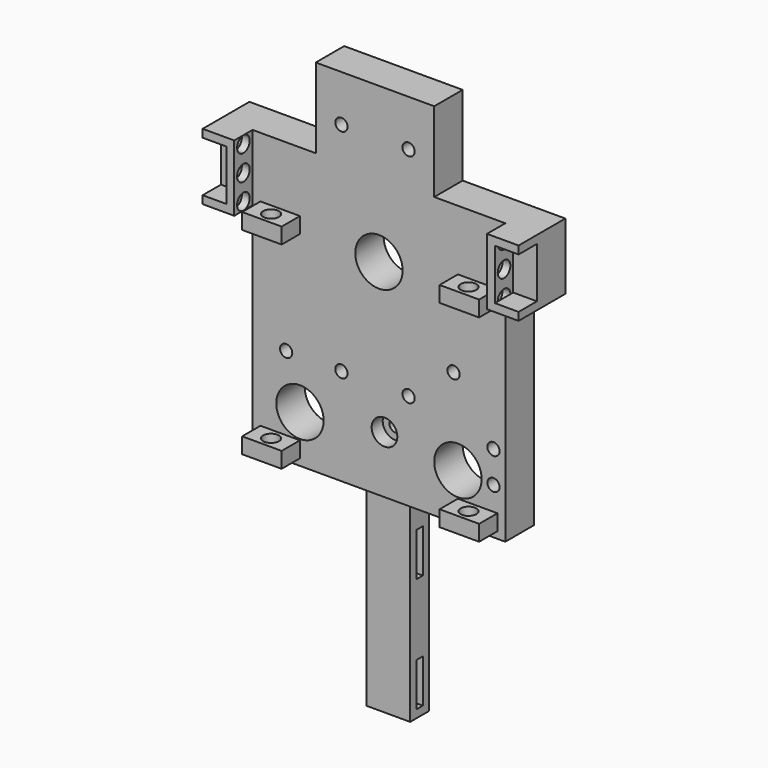
from build123d import *

# Parameters (mm, degrees)
SKETCH022_W            = 64
SKETCH022_H            = 64
PAD020_DEPTH           = 9
SKETCH023_R            = 1.55
POCKET003_DEPTH        = 9
SKETCH024_R            = 1.55
POCKET004_DEPTH        = 9
SKETCH025_R            = 3
POCKET005_DEPTH        = 5.5
SKETCH026_R            = 6
POCKET006_DEPTH        = 9
SKETCH030_R            = 1.55
POCKET009_DEPTH        = 9
SKETCH031_W            = 30
SKETCH031_H            = 27.227398
PAD022_DEPTH           = 9
SKETCH032_R            = 1.55
POCKET010_DEPTH        = 9
SKETCH066_W            = 16.8
SKETCH066_H            = 9
PAD040_DEPTH           = 8
PAD040_FACE8_W         = 9
PAD040_FACE8_H         = 16
PAD041_DEPTH           = 7
MIRRORED_FACE11_W      = 9
MIRRORED_FACE11_H      = 18
PAD042_DEPTH           = 7
PAD043_DEPTH           = 5.8
SKETCH068_R            = 2
POCKET027_DEPTH        = 5
LINEARPATTERN_COUNT    = 3
LINEARPATTERN_PITCH    = 6.4
SKETCH069_R            = 2
POCKET028_DEPTH        = 5
LINEARPATTERN001_COUNT = 3
LINEARPATTERN001_PITCH = 6.4
SKETCH071_W            = 10
SKETCH071_H            = 4
PAD044_DEPTH           = 5.8
SKETCH073_R            = 2
POCKET029_DEPTH        = 100
SKETCH074_W            = 11
SKETCH074_H            = 6
PAD045_DEPTH           = 50
SKETCH075_W            = 11
SKETCH075_H            = 2
POCKET030_DEPTH        = 12
SKETCH076_R            = 1.55
POCKET031_DEPTH        = 10
SKETCH083_R            = 3.25
POCKET035_DEPTH        = 3.5


with BuildPart() as part:
    # Sketch022 → Pad020 (new body)
    with BuildSketch(Plane.XZ):
        Rectangle(SKETCH022_W, SKETCH022_H)
    extrude(amount=PAD020_DEPTH)

    # Sketch023 (on Face5 of Pad020) → Pocket003 (cut)
    with BuildSketch(Plane(origin=(0, 0, 0), x_dir=(1, 0, 0), z_dir=(0, 1, 0))):
        with Locations((-9.5, 7.5)):
            Circle(SKETCH023_R)
        with Locations((-23.5, 7.5)):
            Circle(SKETCH023_R)
    extrude(amount=-POCKET003_DEPTH, mode=Mode.SUBTRACT)

    # Sketch024 (on Face4 of Pocket003) → Pocket004 (cut)
    with BuildSketch(Plane(origin=(0, 0, 0), x_dir=(1, 0, 0), z_dir=(0, 1, 0))):
        with Locations((1.4, 17.5)):
            Circle(SKETCH024_R)
        with Locations((18.9, -1.5)):
            Circle(SKETCH024_R)
    extrude(amount=-POCKET004_DEPTH, mode=Mode.SUBTRACT)

    # Sketch025 (on Face4 of Pocket004) → Pocket005 (cut)
    with BuildSketch(Plane(origin=(0, 0, 0), x_dir=(1, 0, 0), z_dir=(0, 1, 0))):
        with Locations((-23.5, 7.5)):
            Circle(SKETCH025_R)
        with Locations((-9.5, 7.5)):
            Circle(SKETCH025_R)
    extrude(amount=-POCKET005_DEPTH, mode=Mode.SUBTRACT)

    # Sketch026 (on Face4 of Pocket005) → Pocket006 (cut)
    with BuildSketch(Plane(origin=(0, 0, 0), x_dir=(1, 0, 0), z_dir=(0, 1, 0))):
        with Locations((0, -20)):
            Circle(SKETCH026_R)
        with Locations((20, 20)):
            Circle(SKETCH026_R)
        with Locations((-20, 20)):
            Circle(SKETCH026_R)
    extrude(amount=-POCKET006_DEPTH, mode=Mode.SUBTRACT)

    # Sketch030 (on Face5 of Pocket006) → Pocket009 (cut)
    with BuildSketch(Plane.XZ.offset(9)):
        with Locations((7.5, -7.5)):
            Circle(SKETCH030_R)
    extrude(amount=-POCKET009_DEPTH, mode=Mode.SUBTRACT)

    # Sketch031 (on Face5 of Pocket009) → Pad022 (join)
    with BuildSketch(Plane.XZ.offset(9)):
        with Locations((-1, 45.613699)):
            Rectangle(SKETCH031_W, SKETCH031_H)
    extrude(amount=-PAD022_DEPTH)

    # Sketch032 (on Face22 of Pad022) → Pocket010 (cut)
    with BuildSketch(Plane.XZ.offset(9)):
        with Locations((-9.5, 47.5)):
            Circle(SKETCH032_R)
        with Locations((7.5, 47.5)):
            Circle(SKETCH032_R)
    extrude(amount=-POCKET010_DEPTH, mode=Mode.SUBTRACT)

    # Sketch066 (on Face2 of Pocket010) → Pad040 (join)
    with BuildSketch(Plane(origin=(-32, 0, 0), x_dir=(0, 0, -1), z_dir=(-1, 0, 0))):
        with Locations((-30.6, 4.5)):
            Rectangle(SKETCH066_W, SKETCH066_H)
    pad040 = extrude(amount=PAD040_DEPTH)

    # Pad040 Face8 → Pad041 (add)
    with BuildSketch(Plane(origin=(-24, -4.5, 32), x_dir=(0, 1, 0), z_dir=(0, 0, 1))):
        Rectangle(PAD040_FACE8_W, PAD040_FACE8_H)
    extrude(amount=PAD041_DEPTH)

    # Mirrored: Pad040 across YZ
    add(pad040.mirror(Plane.YZ))

    # Mirrored Face11 → Pad042 (add)
    with BuildSketch(Plane(origin=(23, -4.5, 32), x_dir=(0, 1, 0), z_dir=(0, 0, 1))):
        Rectangle(MIRRORED_FACE11_W, MIRRORED_FACE11_H)
    extrude(amount=PAD042_DEPTH)

    # Sketch067 (on Face27 of Pad042) → Pad043 (join)
    with BuildSketch(Plane.XZ.offset(9)):
        Polygon((40, 39), (32, 39), (32, 22.2), (40, 22.2), (40, 24.2), (34, 24.2), (34, 37), (40, 37), align=None)
    pad043 = extrude(amount=PAD043_DEPTH)

    # Mirrored001: Pad043 across YZ
    add(pad043.mirror(Plane.YZ))

    # Sketch068 (on Face37 of Mirrored001) → Pocket027 (cut)
    with BuildSketch(Plane(origin=(-34, 0, 0), x_dir=(0, 0, -1), z_dir=(-1, 0, 0))):
        with Locations((-24.2, 11.9)):
            Circle(SKETCH068_R)
    pocket027 = extrude(amount=-POCKET027_DEPTH, mode=Mode.SUBTRACT)

    # LinearPattern: Pocket027 ×3
    with Locations(*[(0, 0, i * LINEARPATTERN_PITCH) for i in range(1, LINEARPATTERN_COUNT)]):
        add(pocket027, mode=Mode.SUBTRACT)

    # Sketch069 (on Face44 of LinearPattern) → Pocket028 (cut)
    with BuildSketch(Plane(origin=(34, 0, 0), x_dir=(0, 0, 1), z_dir=(1, 0, 0))):
        with Locations((37, 11.9)):
            Circle(SKETCH069_R)
    pocket028 = extrude(amount=-POCKET028_DEPTH, mode=Mode.SUBTRACT)

    # LinearPattern001: Pocket028 ×3
    with Locations(*[(0, 0, -i * LINEARPATTERN001_PITCH) for i in range(1, LINEARPATTERN001_COUNT)]):
        add(pocket028, mode=Mode.SUBTRACT)

    # Sketch071 (on Face35 of LinearPattern001) → Pad044 (join)
    with BuildSketch(Plane.XZ.offset(9)):
        with Locations((25, 21.7)):
            Rectangle(SKETCH071_W, SKETCH071_H)
        with Locations((25, -28.3)):
            Rectangle(SKETCH071_W, SKETCH071_H)
    pad044 = extrude(amount=PAD044_DEPTH)

    # Mirrored003: Pad044 across Sketch071 V_Axis
    add(pad044.mirror(Plane(origin=(0, -9, 0), x_dir=(0, -1, 0), z_dir=(1, 0, 0))))

    # Sketch073 (on Face49 of Mirrored003) → Pocket029 (cut)
    with BuildSketch(Plane(origin=(0, 0, 23.7), x_dir=(-1, 0, 0), z_dir=(0, 0, 1))):
        with Locations((-25, 11.9)):
            Circle(SKETCH073_R)
    pocket029 = extrude(amount=-POCKET029_DEPTH, mode=Mode.SUBTRACT)

    # Mirrored004: Pocket029 across YZ
    add(pocket029.mirror(Plane.YZ), mode=Mode.SUBTRACT)

    # Sketch074 (on Face15 of Mirrored004) → Pad045 (join)
    with BuildSketch(Plane(origin=(0, 0, -32), x_dir=(1, 0, 0), z_dir=(0, 0, -1))):
        with Locations((0, 3)):
            Rectangle(SKETCH074_W, SKETCH074_H)
    extrude(amount=PAD045_DEPTH)

    # Sketch075 (on Face41 of Pad045) → Pocket030 (cut)
    with BuildSketch(Plane(origin=(5.5, 0, 0), x_dir=(0, 0, 1), z_dir=(1, 0, 0))):
        with Locations((-74.5, 3)):
            Rectangle(SKETCH075_W, SKETCH075_H)
        with Locations((-45.5, 3)):
            Rectangle(SKETCH075_W, SKETCH075_H)
    extrude(amount=-POCKET030_DEPTH, mode=Mode.SUBTRACT)

    # Sketch076 (on Face30 of Pocket030) → Pocket031 (cut)
    with BuildSketch(Plane.XZ.offset(9)):
        with Locations((29, -12.3)):
            Circle(SKETCH076_R)
        with Locations((29, -20.3)):
            Circle(SKETCH076_R)
    extrude(amount=-POCKET031_DEPTH, mode=Mode.SUBTRACT)

    # Sketch083 (on Face32 of Pocket031) → Pocket035 (cut)
    with BuildSketch(Plane.XZ.offset(9)):
        with Locations((1.4, -17.5)):
            Circle(SKETCH083_R)
    extrude(amount=-POCKET035_DEPTH, mode=Mode.SUBTRACT)


solid = part.part
